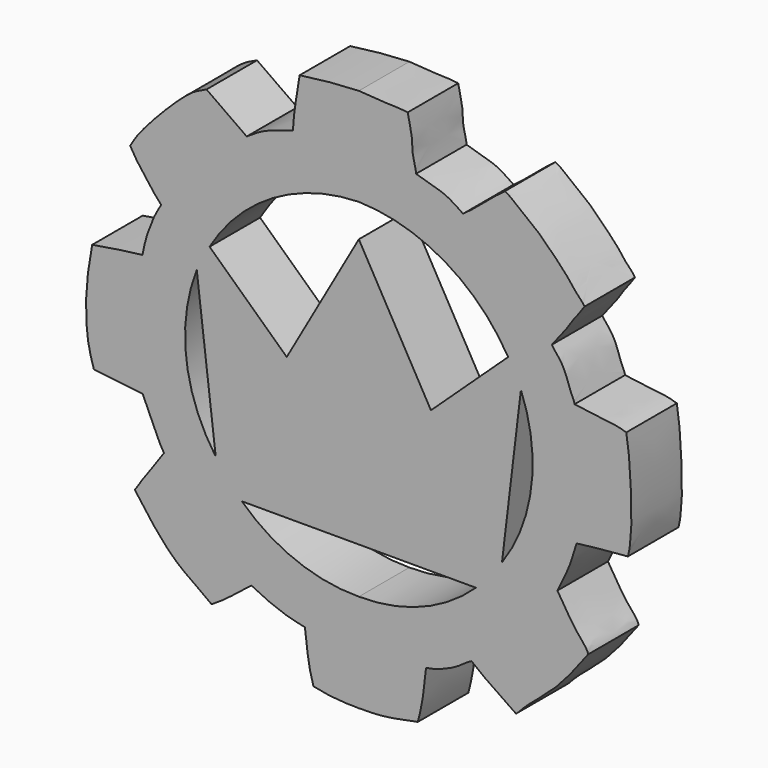
from build123d import *

# Parameters (mm, degrees)
F1_DEPTH = 6.35


with BuildPart() as f1:
    # F0 (on Front) → F1 (new body)
    with BuildSketch(Plane.XZ):
        with BuildLine():
            add(Edge.make_bspline(
                [(0, 29.1454624385), (1.0437938543, 29.092111315), (2.9676615883, 28.9021353997), (3.9769254433, 28.960774908), (4.9135610461, 28.8361106068)],
                knots=[0, 0, 0, 0, 0.5411649205, 1, 1, 1, 1], degree=3))
            add(Edge.make_bspline(
                [(0, 29.1454624385), (-0.9437528923, 29.0972246788), (-2.8725435711, 28.9986389771), (-4.9138774721, 28.7269415704), (-5.9563913383, 28.5881850868)],
                knots=[0, 0, 0, 0, 0.4892977256, 1, 1, 1, 1], degree=3))
            add(Edge.make_bspline(
                [(-5.9563913383, 28.5881850868), (-6.0373155006, 28.0471445059), (-6.2016335657, 26.9485512193), (-6.5093200592, 25.2156363617), (-6.5898328104, 24.0659783815), (-6.62991032, 23.4937034547)],
                knots=[0, 0, 0, 0, 0.3276624402, 0.6653248753, 1, 1, 1, 1], degree=3))
            add(Edge.make_bspline(
                [(-6.62991032, 23.4937034547), (-7.1630712073, 23.3361625005), (-8.2499255604, 23.0150135266), (-9.9572225739, 22.336204538), (-10.8475304186, 21.7288015321), (-11.2771932036, 21.435668692)],
                knots=[0, 0, 0, 0, 0.3325381872, 0.6778827649, 1, 1, 1, 1], degree=3))
            add(Edge.make_bspline(
                [(-11.2771932036, 21.435668692), (-11.8350702765, 21.8249692799), (-13.0377139366, 22.6642041338), (-14.5223554917, 23.7203330679), (-15.3183080256, 24.2865495384)],
                knots=[0, 0, 0, 0, 0.4638756196, 1, 1, 1, 1], degree=3))
            add(Edge.make_bspline(
                [(-15.3183080256, 24.2865495384), (-15.7393330058, 24.0996279574), (-16.6177593429, 23.7096348514), (-17.8974724533, 22.6498262533), (-19.4217291693, 21.176610486), (-20.9120929279, 19.6036415161), (-22.2988027199, 17.9964793951), (-22.7815170567, 17.1662651554), (-22.9964256287, 16.7966466397)],
                knots=[0, 0, 0, 0, 0.1470342518, 0.3067721995, 0.488195784, 0.6741675209, 0.8549365796, 1, 1, 1, 1], degree=3))
            add(Edge.make_bspline(
                [(-22.9964256287, 16.7966466397), (-22.7827786963, 16.4290347992), (-22.3389569602, 15.6653724171), (-21.4374221971, 14.5295552957), (-20.4705705808, 13.2063534042), (-20.054743296, 12.7638344348), (-19.881401211, 12.5793656334)],
                knots=[0, 0, 0, 0, 0.2493452916, 0.5179801039, 0.7990648116, 1, 1, 1, 1], degree=3))
            add(Edge.make_bspline(
                [(-19.881401211, 12.5793656334), (-20.0846392768, 12.2431799217), (-20.5544790803, 11.4659956468), (-21.3840934518, 9.4147652747), (-21.6421566332, 8.1490557932), (-21.7672549188, 7.5354925357)],
                knots=[0, 0, 0, 0, 0.2820132239, 0.6519499051, 1, 1, 1, 1], degree=3))
            add(Edge.make_bspline(
                [(-21.7672549188, 7.5354925357), (-22.4007651503, 7.4617805928), (-23.8174591466, 7.2969414761), (-25.7501887359, 6.9725709243), (-26.8186498433, 6.7932507955)],
                knots=[0, 0, 0, 0, 0.4471750661, 1, 1, 1, 1], degree=3))
            add(Edge.make_bspline(
                [(-26.8186498433, 6.7932507955), (-27.0150206584, 5.7106997675), (-27.4153649769, 3.5036856882), (-27.487576028, -0.1420278505), (-27.1724841229, -2.4576482164), (-26.8158489096, -3.6351135415), (-26.6502574086, -4.1818297468)],
                knots=[0, 0, 0, 0, 0.2787464784, 0.5682848997, 0.7995476925, 1, 1, 1, 1], degree=3))
            add(Edge.make_bspline(
                [(-26.6502574086, -4.1818297468), (-25.6482524067, -4.283882262), (-23.7991424402, -4.4630401598), (-22.4348870789, -4.6582824608), (-21.7444170266, -4.7435350716)],
                knots=[0, 0, 0, 0, 0.5418119861, 1, 1, 1, 1], degree=3))
            add(Edge.make_bspline(
                [(-21.7444170266, -4.7435350716), (-21.5301513936, -5.3239807478), (-20.8973837805, -6.4748096374), (-20.1371624634, -8.4217377612), (-19.7523654924, -9.0446974596), (-19.6018647403, -9.2973606661)],
                knots=[0, 0, 0, 0, 0.3651712445, 0.7411436265, 1, 1, 1, 1], degree=3))
            add(Edge.make_bspline(
                [(-19.6018647403, -9.2973606661), (-19.8557043075, -9.6575667806), (-20.3660684195, -10.5039588883), (-21.8038157451, -12.2702435785), (-22.2412676268, -13.1592855453), (-22.545369342, -13.4900901467)],
                knots=[0, 0, 0, 0, 0.3068371792, 0.6931629329, 1, 1, 1, 1], degree=3))
            add(Edge.make_bspline(
                [(-22.545369342, -13.4900901467), (-22.0940668912, -14.1195692007), (-21.0761124198, -15.5394175013), (-18.599436748, -18.5356038568), (-16.1004309615, -20.144341254), (-15.1952966672, -20.8413432762), (-14.8161659017, -21.133294329)],
                knots=[0, 0, 0, 0, 0.2417916314, 0.5453834162, 0.8095761762, 1, 1, 1, 1], degree=3))
            add(Edge.make_bspline(
                [(-14.8161659017, -21.133294329), (-14.4035545557, -20.8762121849), (-13.5164676765, -20.3235027183), (-11.938800627, -19.0453001605), (-11.1645796897, -18.4402777711), (-10.8113959432, -18.1642789394)],
                knots=[0, 0, 0, 0, 0.321074097, 0.6902878978, 1, 1, 1, 1], degree=3))
            add(Edge.make_bspline(
                [(-10.8113959432, -18.1642789394), (-10.4377997552, -18.356428426), (-9.578418285, -18.7984289431), (-7.4377889326, -19.6846188267), (-6.0846706958, -19.9707083991), (-5.4249824025, -20.1101861894)],
                knots=[0, 0, 0, 0, 0.2826999765, 0.6502933629, 1, 1, 1, 1], degree=3))
            add(Edge.make_bspline(
                [(-5.4249824025, -20.1101861894), (-5.3610155769, -20.6541840451), (-5.2299201103, -21.7690690184), (-4.9868161685, -23.6038968225), (-4.700150649, -24.5945667946), (-4.5639569871, -25.0652302057)],
                knots=[0, 0, 0, 0, 0.3334135521, 0.6833073978, 1, 1, 1, 1], degree=3))
            add(Edge.make_bspline(
                [(-4.5639569871, -25.0652302057), (-4.0036224765, -25.1967327146), (-2.7763592192, -25.4257120062), (-0.8901785241, -25.5282377636), (-0.1930272857, -25.4964662667), (0, -25.538245216)],
                knots=[0, 0, 0, 0, 0.3722930601, 0.7521386883, 1, 1, 1, 1], degree=3))
            add(Edge.make_bspline(
                [(5.9308572672, -24.8031578958), (5.2689139487, -24.9585065411), (2.6790443076, -25.4731548763), (0.9559764293, -25.5156687774), (0.1722671255, -25.5009596091), (0, -25.538245216)],
                knots=[0, 0, 0, 0, 0.4398031871, 0.7787962694, 1, 1, 1, 1], degree=3))
            add(Edge.make_bspline(
                [(6.7557585426, -19.7417400777), (6.688428351, -20.314341258), (6.5813657899, -21.6402709566), (6.2935524423, -23.3259978833), (6.0650862164, -24.3392842162), (5.9308572672, -24.8031578958)],
                knots=[0, 0, 0, 0, 0.350944386, 0.6878759656, 1, 1, 1, 1], degree=3))
            add(Edge.make_bspline(
                [(11.3211954013, -17.6592599601), (10.8213650634, -17.9163346998), (9.7584232665, -18.866459568), (7.3118023933, -19.6875722622), (7.1734705952, -19.6534232853), (6.7557585426, -19.7417400777)],
                knots=[0, 0, 0, 0, 0.3782212702, 0.7785671222, 1, 1, 1, 1], degree=3))
            add(Edge.make_bspline(
                [(15.8065371215, -20.8630748093), (15.3251736992, -20.56315591), (13.8665011648, -19.4558100421), (12.7789681935, -18.8303028026), (11.6959509508, -17.9521162845), (11.3211954013, -17.6592599601)],
                knots=[0, 0, 0, 0, 0.3745736215, 0.6713712616, 1, 1, 1, 1], degree=3))
            add(Edge.make_bspline(
                [(23.0551678687, -13.2540129125), (22.5634664887, -13.9398406075), (21.2969886908, -15.5947202126), (19.3865031013, -17.7631830268), (16.5740495299, -19.9562511424), (16.1467053643, -20.6011269916), (15.8065371215, -20.8630748093)],
                knots=[0, 0, 0, 0, 0.2634359256, 0.5400288837, 0.8291456578, 1, 1, 1, 1], degree=3))
            add(Edge.make_bspline(
                [(19.9714973569, -8.6084809154), (20.2495023641, -9.0029785287), (21.011999566, -10.2999652272), (21.9169868652, -11.70396495), (23.0144243441, -12.8465890354), (23.0551678687, -13.2540129125)],
                knots=[0, 0, 0, 0, 0.3360479736, 0.6730359544, 1, 1, 1, 1], degree=3))
            add(Edge.make_bspline(
                [(21.8937862664, -3.8027581759), (21.7035819832, -4.3180216468), (21.4474562337, -5.4083164729), (20.8218480912, -6.8864413809), (20.1707750268, -8.2739301949), (19.9714973569, -8.6084809154)],
                knots=[0, 0, 0, 0, 0.3241636739, 0.6572489225, 1, 1, 1, 1], degree=3))
            add(Edge.make_bspline(
                [(27.0599387586, -3.2821381465), (26.0380611154, -3.3862146566), (23.9300050389, -3.5368732847), (22.5680630159, -3.7195049586), (21.8937862664, -3.8027581759)],
                knots=[0, 0, 0, 0, 0.5525576762, 1, 1, 1, 1], degree=3))
            add(Edge.make_bspline(
                [(26.8997494131, 7.65088154), (27.1242064519, 6.4134970641), (27.3633651924, 3.5787653193), (27.439365489, -0.1607865373), (27.3473887116, -1.3791971203), (27.2348576602, -2.7046266344), (27.0599387586, -3.2821381465)],
                knots=[0, 0, 0, 0, 0.3186146021, 0.6147483075, 0.7882566602, 1, 1, 1, 1], degree=3))
            add(Edge.make_bspline(
                [(21.693546325, 8.4518361837), (22.3789499151, 8.3720862005), (24.304576792, 8.0593863157), (25.7784109563, 8.0113112926), (26.8997494131, 7.65088154)],
                knots=[0, 0, 0, 0, 0.4838049656, 1, 1, 1, 1], degree=3))
            add(Edge.make_bspline(
                [(19.4108262658, 12.9772247747), (19.6651851258, 12.5564777356), (20.683890471, 11.5867833538), (21.2529723436, 9.3224373945), (21.598601005, 8.9175097099), (21.693546325, 8.4518361837)],
                knots=[0, 0, 0, 0, 0.352948459, 0.7358418825, 1, 1, 1, 1], degree=3))
            add(Edge.make_bspline(
                [(22.6947367191, 17.4225196242), (22.4413821761, 16.9865848375), (21.5126588146, 15.8983840367), (21.1662670639, 15.2110067721), (20.3757160555, 14.255874727), (19.6432982612, 13.2246189971), (19.4108262658, 12.9772247747)],
                knots=[0, 0, 0, 0, 0.2956876643, 0.4893521651, 0.730522428, 1, 1, 1, 1], degree=3))
            add(Edge.make_bspline(
                [(14.6851977333, 25.0315796584), (15.2235059004, 24.7925881059), (16.6051459422, 23.5783271475), (17.8795272181, 22.7063806851), (19.3795101389, 21.1942951621), (20.9703035578, 19.602131019), (21.6083627989, 18.5856925536), (22.4685614557, 17.8115155791), (22.6947367191, 17.4225196242)],
                knots=[0, 0, 0, 0, 0.187992975, 0.3461125439, 0.5256980424, 0.7097856138, 0.8473315558, 1, 1, 1, 1], degree=3))
            add(Edge.make_bspline(
                [(10.480189696, 21.667573601), (11.0545698354, 22.0683904419), (12.4507201039, 23.2125696165), (13.9096179326, 24.4798557319), (14.6851977333, 25.0315796584)],
                knots=[0, 0, 0, 0, 0.4775979441, 1, 1, 1, 1], degree=3))
            add(Edge.make_bspline(
                [(5.7545625605, 23.6699581146), (6.3939497446, 23.4810289011), (8.1266642272, 23.0343498509), (9.3072746554, 22.4757967175), (10.0773108512, 21.9424333843), (10.480189696, 21.667573601)],
                knots=[0, 0, 0, 0, 0.3987926726, 0.6979626253, 1, 1, 1, 1], degree=3))
            add(Edge.make_bspline(
                [(4.9135610461, 28.8361106068), (5.0018057445, 28.2461265834), (5.4317244157, 26.8651315663), (5.3164898818, 25.2755494168), (5.7159192748, 24.2217534645), (5.7545625605, 23.6699581146)],
                knots=[0, 0, 0, 0, 0.3573033365, 0.677301645, 1, 1, 1, 1], degree=3))
        make_face()
        with BuildLine():
            ThreePointArc((-14.3957585096, -7.9261912033), (-17.36002773, -0.2137465224), (-16.3007583469, 7.9805590212))
            Line((-16.3007583469, 7.9805590212), (-14.3957585096, -7.9261912033))
        make_face(mode=Mode.SUBTRACT)
        with BuildLine():
            ThreePointArc((0, -15.6414415687), (-6.3381965817, -14.4787839931), (-11.7763839662, -11.0218161717))
            Line((-11.7763839662, -11.0218161717), (0, -11.0218161717))
            Line((0, -11.0218161717), (11.7763839662, -11.0218161717))
            ThreePointArc((11.7763839662, -11.0218161717), (6.3381965817, -14.4787839931), (0, -15.6414415687))
        make_face(mode=Mode.SUBTRACT)
        with BuildLine():
            Line((14.3957585096, -7.9261912033), (16.3007583469, 7.9805590212))
            ThreePointArc((16.3007583469, 7.9805590212), (17.36002773, -0.2137465224), (14.3957585096, -7.9261912033))
        make_face(mode=Mode.SUBTRACT)
        with BuildLine():
            Line((7.2520091198, 3.2180584967), (0, 16.0014592111))
            Line((0, 16.0014592111), (-7.2520091198, 3.2180584967))
            Line((-7.2520091198, 3.2180584967), (-15.0148840621, 10.4570584372))
            ThreePointArc((-15.0148840621, 10.4570584372), (-8.6577731267, 16.8360140302), (0, 19.3153079599))
            ThreePointArc((0, 19.3153079599), (8.6577731267, 16.8360140302), (15.0148840621, 10.4570584372))
            Line((15.0148840621, 10.4570584372), (7.2520091198, 3.2180584967))
        make_face(mode=Mode.SUBTRACT)
    extrude(amount=F1_DEPTH)


solid = f1.part
